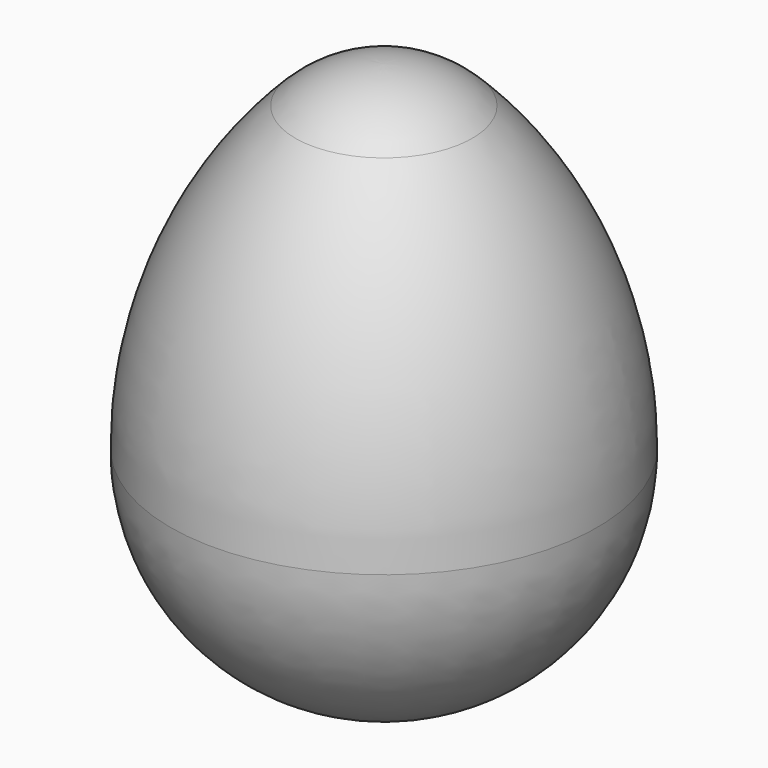
from build123d import *


with BuildPart() as f1:
    # F0 (on Front) → F1 (revolve)
    with BuildSketch(Plane.XZ):
        with BuildLine():
            ThreePointArc((-21.042049, 71.842049), (-43.066161, 38.880637), (-50.8, 0))
            ThreePointArc((-50.8, 0), (-35.921024, -35.921024), (0, -50.8))
            Line((0, -50.8), (0, 80.557954))
            ThreePointArc((0, 80.557954), (-11.387875, 78.292763), (-21.042049, 71.842049))
        make_face()
    revolve(axis=Axis((0, 0, 14.878977), (0, 0, 1)))


solid = f1.part
